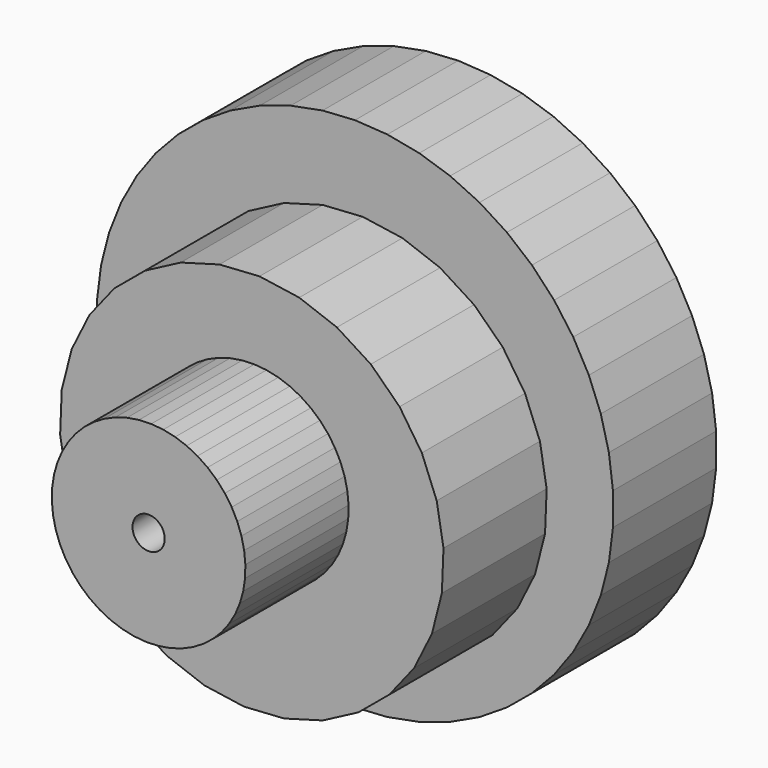
from build123d import *

# Parameters (mm, degrees)
F1_DEPTH = 25.4
F3_DEPTH = 25.4
F5_DEPTH = 25.4
F7_D     = 6.35


with BuildPart() as f1:
    # F0 (on Front) → F1 (new body)
    with BuildSketch(Plane.XZ):
        Polygon((50.8, -3.196065), (50.8, 3.196065), (49.998854, 9.537791), (48.409196, 15.729101), (46.056095, 21.672353), (42.976663, 27.27382), (39.219463, 32.445162), (34.843749, 37.104824), (29.918528, 41.179321), (24.521474, 44.604396), (18.737702, 47.326033), (12.658425, 49.301309), (6.379517, 50.499075), (0, 50.90044), (-6.379517, 50.499075), (-12.658425, 49.301309), (-18.737702, 47.326033), (-24.521474, 44.604396), (-29.918528, 41.179321), (-34.843749, 37.104824), (-39.219463, 32.445162), (-42.976663, 27.27382), (-46.056095, 21.672353), (-48.409196, 15.729101), (-49.998854, 9.537791), (-50.8, 3.196065), (-50.8, -3.196065), (-49.998854, -9.537791), (-48.409196, -15.729101), (-46.056095, -21.672353), (-42.976663, -27.27382), (-39.219463, -32.445162), (-34.843749, -37.104824), (-29.918528, -41.179321), (-24.521474, -44.604396), (-18.737702, -47.326033), (-12.658425, -49.301309), (-6.379517, -50.499075), (0, -50.90044), (6.379517, -50.499075), (12.658425, -49.301309), (18.737702, -47.326033), (24.521474, -44.604396), (29.918528, -41.179321), (34.843749, -37.104824), (39.219463, -32.445162), (42.976663, -27.27382), (46.056095, -21.672353), (48.409196, -15.729101), (49.998854, -9.537791), align=None)
    extrude(amount=F1_DEPTH)

    # F2 (on face) → F3 (join)
    with BuildSketch(Plane.XZ.offset(25.4)):
        Polygon((31.971438, -23.357266), (35.474816, -16.268379), (37.427775, -8.606008), (37.744961, -0.705035), (36.412511, 7.08923), (33.488659, 14.436139), (29.101192, 21.014597), (23.441863, 26.537095), (16.758013, 30.762272), (9.341757, 33.505468), (1.517221, 34.646793), (-6.373624, 34.136364), (-13.985912, 31.996491), (-20.986948, 28.320695), (-27.070754, 23.269627), (-31.971438, 17.064043), (-35.474816, 9.975156), (-37.427775, 2.312784), (-37.744961, -5.588189), (-36.412511, -13.382453), (-33.488659, -20.729362), (-29.101192, -27.30782), (-23.441863, -32.830318), (-16.758013, -37.055495), (-9.341757, -39.798691), (-1.517221, -40.940016), (6.373624, -40.429587), (13.985912, -38.289714), (20.986948, -34.613918), (27.070754, -29.56285), align=None)
    extrude(amount=F3_DEPTH)

    # F4 (on face) → F5 (join)
    with BuildSketch(Plane.XZ.offset(50.8)):
        Polygon((15.820324, -10.638391), (17.02892, -8.571692), (17.96896, -6.369812), (18.625619, -4.067476), (18.98854, -1.700994), (19.052001, 0.692314), (18.815, 3.074704), (18.281276, 5.408604), (17.459245, 7.657207), (16.361871, 9.785051), (15.006461, 11.758579), (13.414389, 13.546667), (11.610765, 15.121116), (9.624033, 16.457097), (7.485523, 17.533539), (5.228962, 18.333466), (2.889938, 18.844264), (0.505337, 19.057877), (-1.887233, 18.970935), (-4.25004, 18.584811), (-6.545822, 17.905593), (-8.738372, 16.943993), (-10.793113, 15.715176), (-12.677639, 14.238521), (-14.362232, 12.537317), (-15.820324, 10.638391), (-17.02892, 8.571692), (-17.96896, 6.369812), (-18.625619, 4.067476), (-18.98854, 1.700994), (-19.052001, -0.692314), (-18.815, -3.074704), (-18.281276, -5.408604), (-17.459245, -7.657207), (-16.361871, -9.785051), (-15.006461, -11.758579), (-13.414389, -13.546667), (-11.610765, -15.121116), (-9.624033, -16.457097), (-7.485523, -17.533539), (-5.228962, -18.333466), (-2.889938, -18.844264), (-0.505337, -19.057877), (1.887233, -18.970935), (4.25004, -18.584811), (6.545822, -17.905593), (8.738372, -16.943993), (10.793113, -15.715176), (12.677639, -14.238521), (14.362232, -12.537317), align=None)
    extrude(amount=F5_DEPTH)

    # F7 (through all)
    with Locations(Plane.XZ.offset(76.2)):
        with Locations((0, 0)):
            Hole(F7_D / 2)


solid = f1.part
